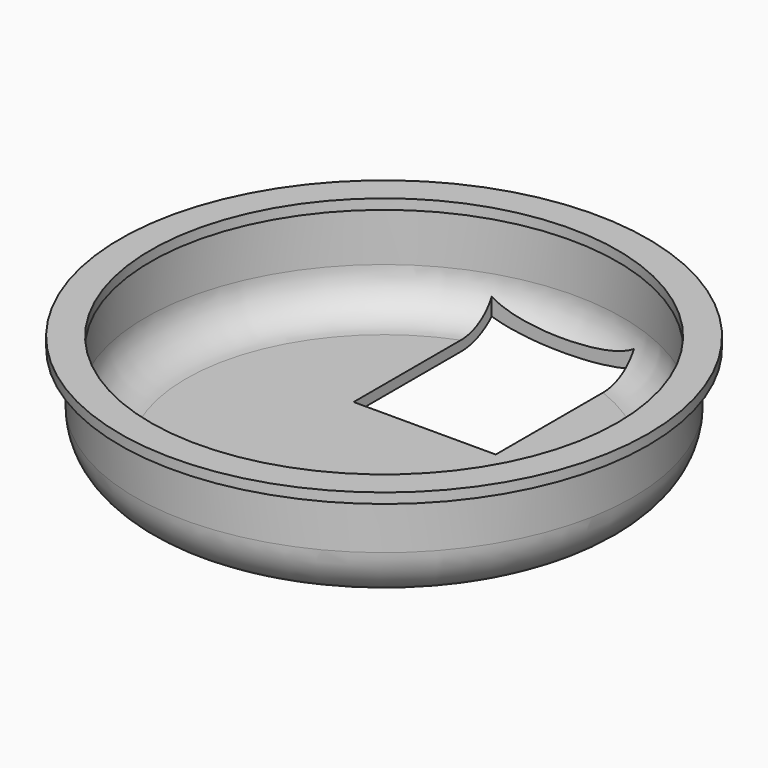
from build123d import *

# Parameters (mm, degrees)
BOX_W         = 14
BOX_H         = 17
BOX_DEPTH     = 6
SKETCH_R      = 24.5
PAD_DEPTH     = 10
FILLET_R      = 5
THICKNESS_T   = -1
SKETCH001_R   = 26
SKETCH001_R_2 = 23
PAD001_DEPTH  = 1


with BuildPart() as cube:
    # Box → Box (new body)
    with BuildSketch(Plane(origin=(-7, 5, -2), x_dir=(1, 0, 0), z_dir=(0, 0, 1))):
        with Locations((7, 8.5)):
            Rectangle(BOX_W, BOX_H)
    extrude(amount=BOX_DEPTH)


with BuildPart() as cut:
    # Sketch → Pad (new body)
    with BuildSketch(Plane.XY):
        Circle(SKETCH_R)
    extrude(amount=PAD_DEPTH)

    # Fillet
    fillet_edges = [cut.edges().sort_by_distance(p)[0] for p in [
        (-24.5, 0, 0),
    ]]
    fillet(fillet_edges, radius=FILLET_R)

    # Thickness
    thickness_openings = [cut.faces().sort_by_distance(p)[0] for p in [
        (0, 0, 10),
    ]]
    offset(amount=THICKNESS_T, openings=thickness_openings)

    # Sketch001 → Pad001 (new body)
    with BuildSketch(Plane.XY.offset(10)):
        Circle(SKETCH001_R)
        Circle(SKETCH001_R_2, mode=Mode.SUBTRACT)
    extrude(amount=PAD001_DEPTH)

    # Cut: cut Cube
    add(cube.part, mode=Mode.SUBTRACT)


solid = cut.part
